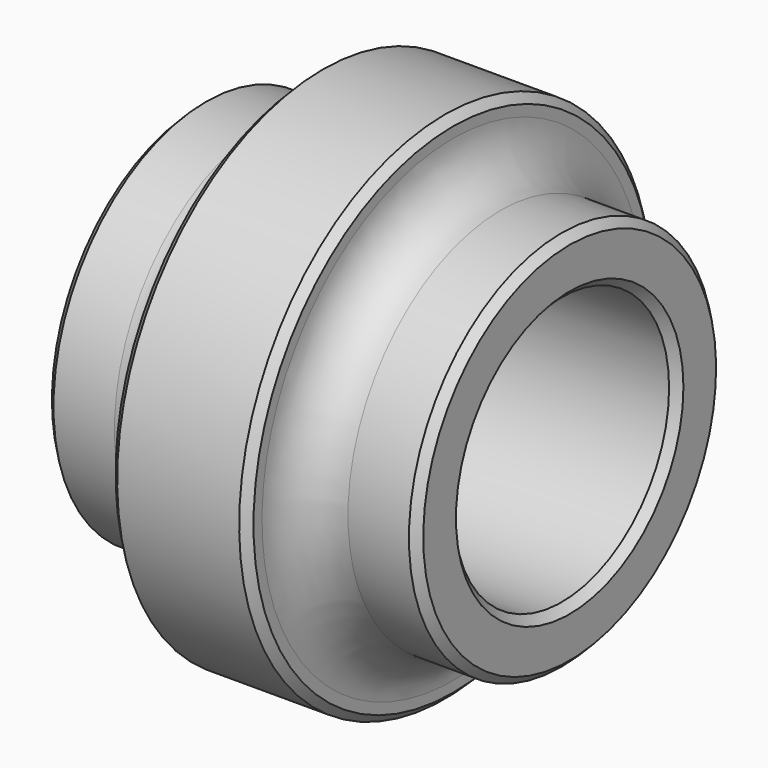
from build123d import *

# Parameters (mm, degrees)
F2_R     = 4.5
F3_R     = 12.65
F4_DEPTH = 35.001
F5_SIZE  = 0.75


with BuildPart() as f1:
    # F0 (on Front) → F1 (revolve)
    with BuildSketch(Plane.XZ):
        Polygon((-17.5, 0), (0, 0), (17.5, 0), (17.5, 18), (6.5, 18), (6.5, 24.25), (-6.5, 24.25), (-6.5, 18), (-17.5, 18), align=None)
    revolve(axis=Axis((-8.75, 0, 0), (-1, 0, 0)))

    # F2
    f2_edges = [f1.edges().sort_by_distance(p)[0] for p in [
        (6.5, 0, -18),
        (-6.5, 0, -18),
    ]]
    fillet(f2_edges, radius=F2_R)

    # F3 (on face) → F4 (cut, through all)
    with BuildSketch(Plane.YZ.offset(17.5)):
        Circle(F3_R)
    extrude(amount=-F4_DEPTH, mode=Mode.SUBTRACT)

    # F5
    f5_edges = [f1.edges().sort_by_distance(p)[0] for p in [
        (17.5, -12.65, 0),
        (0, 12.65, 0),
        (-17.5, -12.65, 0),
        (-6.5, 0, -24.25),
        (-17.5, 0, -18),
        (6.5, 0, -24.25),
        (17.5, 0, -18),
    ]]
    chamfer(f5_edges, length=F5_SIZE)


solid = f1.part
